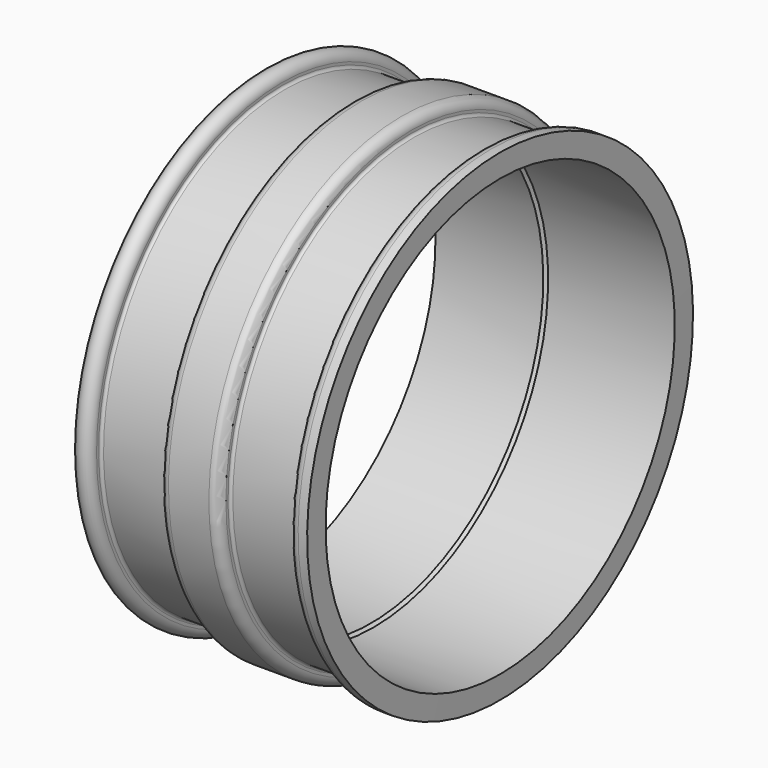
from build123d import *


with BuildPart() as f1:
    # F0 (on Front) → F1 (revolve)
    with BuildSketch(Plane.XZ):
        with BuildLine():
            Line((-51.487403, 40.999997), (-51.487403, 40))
            Line((-51.487403, 40), (-31.487403, 40))
            Line((-31.487403, 40), (-30.987403, 40.5))
            Line((-30.987403, 40.5), (-7.487403, 40.5))
            Line((-7.487403, 40.5), (-7.506344, 44.749074))
            Line((-7.506344, 44.749074), (-9.180421, 44.749074))
            ThreePointArc((-9.180421, 44.749074), (-10.454527, 44.257424), (-10.987403, 43.000001))
            Line((-10.987403, 43.000001), (-10.987403, 42.500001))
            ThreePointArc((-10.987403, 42.500001), (-11.13385, 42.146448), (-11.487403, 42.000001))
            Line((-11.487403, 42.000001), (-23.487403, 42.000001))
            ThreePointArc((-23.487403, 42.000001), (-23.840957, 42.146448), (-23.987403, 42.500001))
            Line((-23.987403, 42.500001), (-23.987403, 43.000001))
            ThreePointArc((-23.987403, 43.000001), (-24.499967, 44.237438), (-25.737403, 44.750001))
            Line((-25.737403, 44.750001), (-33.237403, 44.750001))
            ThreePointArc((-33.237403, 44.750001), (-34.47484, 44.237438), (-34.987403, 43.000001))
            Line((-34.987403, 43.000001), (-34.987403, 42.5))
            ThreePointArc((-34.987403, 42.5), (-35.13385, 42.146447), (-35.487403, 42))
            Line((-35.487403, 42), (-47.486142, 42))
            ThreePointArc((-47.486142, 42), (-47.839245, 42.145997), (-47.98614, 42.498729))
            Line((-47.98614, 42.498729), (-47.987403, 42.99557))
            ThreePointArc((-47.987403, 42.99557), (-49.735189, 44.745569), (-51.487398, 43))
            ThreePointArc((-51.487398, 43), (-51.487402, 42.997785), (-51.487403, 42.99557))
            Line((-51.487403, 42.99557), (-51.487403, 40.999997))
        make_face()
    revolve(axis=Axis((-29.819204, 0, 0), (1, 0, 0)))


solid = f1.part
